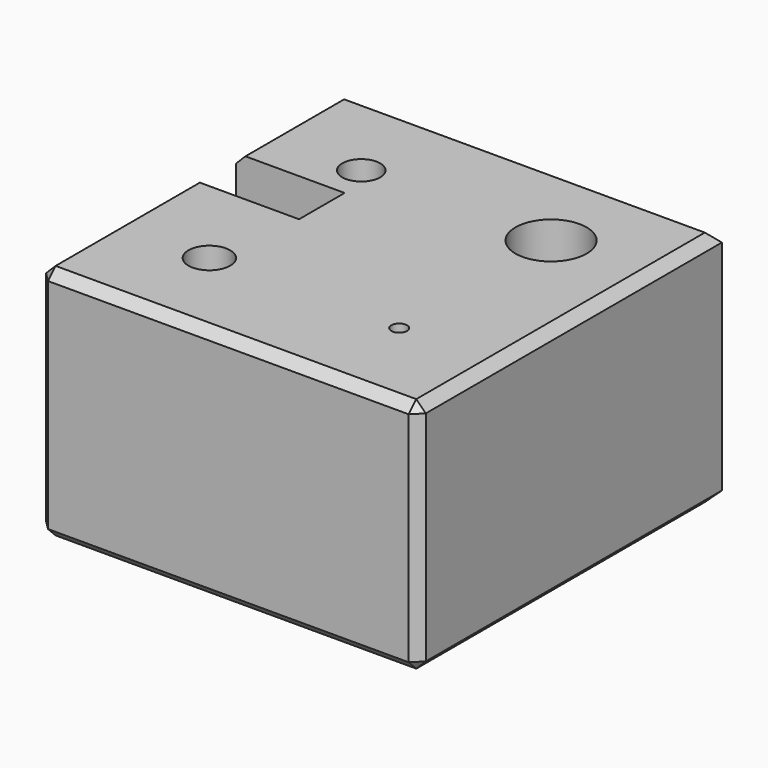
from build123d import *

# Parameters (mm, degrees)
F1_DEPTH       = 50
F2_D           = 8
F2_CBORE_D     = 9.75
F2_CBORE_DEPTH = 5
F3_D           = 15
F4_D           = 8.8
F4_CSINK_D     = 17.92
F4_CSINK_ANGLE = 90
F5_D           = 3.3
F6_SIZE2       = 2
F6_SIZE        = 2


with BuildPart() as f1:
    # F0 (on Top) → F1 (new body)
    with BuildSketch(Plane.XY):
        Polygon((-40, -40), (40, -40), (40, 40), (-40, 40), (-40, 12), (-17.0964375138, 12), (-17.0964375138, 0), (-40, 0), align=None)
    extrude(amount=F1_DEPTH)

    # F2 (through all)
    with Locations(Plane(origin=(0, 0, 0), x_dir=(1, 0, 0), z_dir=(0, 0, -1))):
        with Locations((-20, -20)):
            CounterBoreHole(F2_D / 2, F2_CBORE_D / 2, F2_CBORE_DEPTH)

    # F3 (through all)
    with Locations(Plane(origin=(0, 0, 0), x_dir=(1, 0, 0), z_dir=(0, 0, -1))):
        with Locations((20, -20)):
            Hole(F3_D / 2)

    # F4 (through all)
    with Locations(Plane(origin=(0, 0, 0), x_dir=(1, 0, 0), z_dir=(0, 0, -1))):
        with Locations((-20, 20)):
            CounterSinkHole(F4_D / 2, F4_CSINK_D / 2, counter_sink_angle=F4_CSINK_ANGLE)

    # F5 (through all)
    with Locations(Plane(origin=(0, 0, 0), x_dir=(1, 0, 0), z_dir=(0, 0, -1))):
        with Locations((20, 20)):
            Hole(F5_D / 2)

    # F6
    f6_edges = [f1.edges().sort_by_distance(p)[0] for p in [
        (-40, 40, 25),
        (-40, -20, 50),
        (-40, 26, 50),
        (-40, -40, 25),
        (-40, -20, 0),
        (-40, 26, 0),
        (0, 40, 0),
        (0, -40, 0),
        (40, 0, 0),
        (40, 0, 50),
        (0, 40, 50),
        (0, -40, 50),
        (40, -40, 25),
    ]]
    chamfer(f6_edges, length=F6_SIZE, length2=F6_SIZE2)


solid = f1.part
